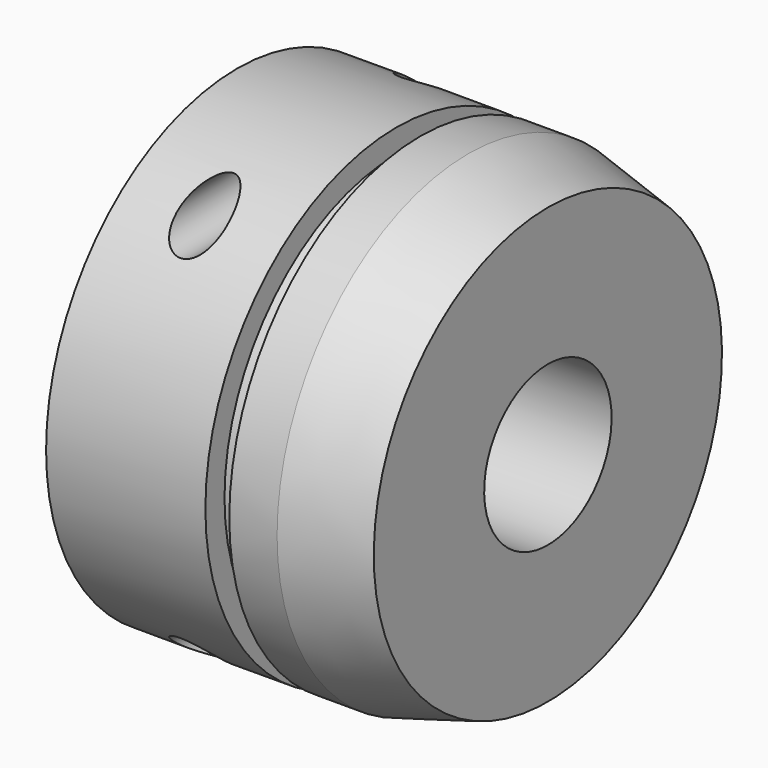
from build123d import *

# Parameters (mm, degrees)
F2_R          = 1.5
F3_DEPTH      = 15.001
F3_DEPTH_BACK = 15.001


with BuildPart() as f1:
    # F0 (on Front) → F1 (revolve)
    with BuildSketch(Plane.XZ):
        Polygon((0, 5), (19.5, 5), (19.5, 13.6602540378), (14.5, 15), (11.5, 15), (11.5, 13.5), (10, 13.5), (10, 15), (0, 15), align=None)
    revolve(axis=Axis((9.75, 0, 0), (1, 0, 0)))

    # F2 (on Front) → F3 (cut, two sides)
    with BuildSketch(Plane.XZ) as f3_sk:
        with Locations((5, 12)):
            Circle(F2_R)
        with Locations((5, -12)):
            Circle(F2_R)
    extrude(amount=-F3_DEPTH, mode=Mode.SUBTRACT)
    extrude(f3_sk.sketch, amount=F3_DEPTH_BACK, mode=Mode.SUBTRACT)


solid = f1.part
